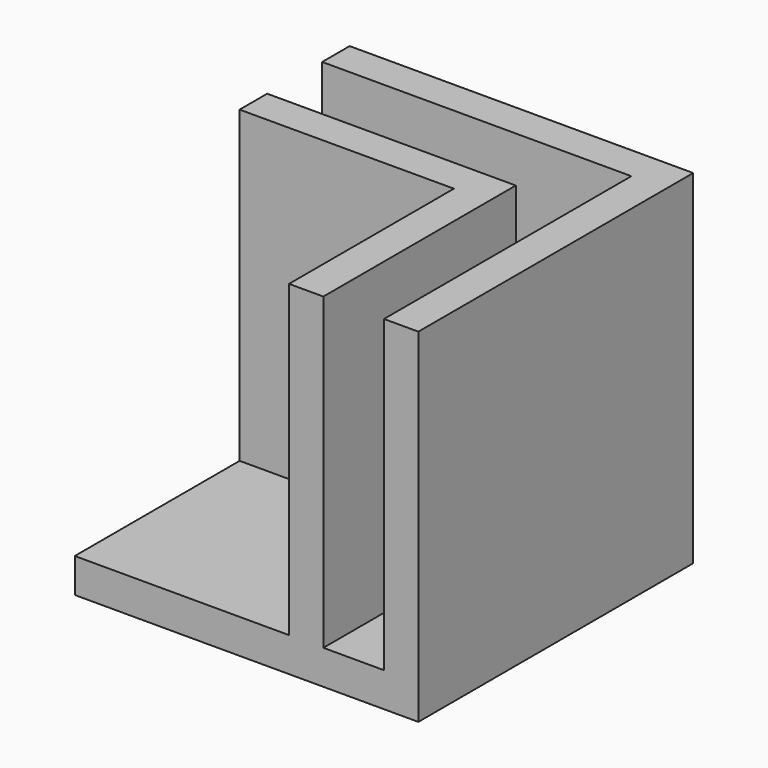
from build123d import *

# Parameters (mm, degrees)
F0_W     = 20
F0_H     = 20
F1_DEPTH = 2
F3_DEPTH = 18
F5_DEPTH = 18


with BuildPart() as f1:
    # F0 (on Top) → F1 (new body)
    with BuildSketch(Plane.XY):
        with Locations((4.142752, 7.774246)):
            Rectangle(F0_W, F0_H)
    extrude(amount=F1_DEPTH)

    # F2 (on face) → F3 (join)
    with BuildSketch(Plane.XY.offset(2)):
        Polygon((14.142752, 17.774246), (-5.857248, 17.774246), (-5.857248, 15.774246), (12.142752, 15.774246), (12.142752, -2.225754), (14.142752, -2.225754), align=None)
    extrude(amount=F3_DEPTH)

    # F4 (on face) → F5 (join)
    with BuildSketch(Plane.XY.offset(2)):
        Polygon((8.142752, 11.774246), (-5.857248, 11.774246), (-5.857248, 9.767495), (6.612573, 9.774246), (6.612573, -2.225754), (8.612573, -2.225754), (8.612573, 11.774246), align=None)
    extrude(amount=F5_DEPTH)


solid = f1.part
